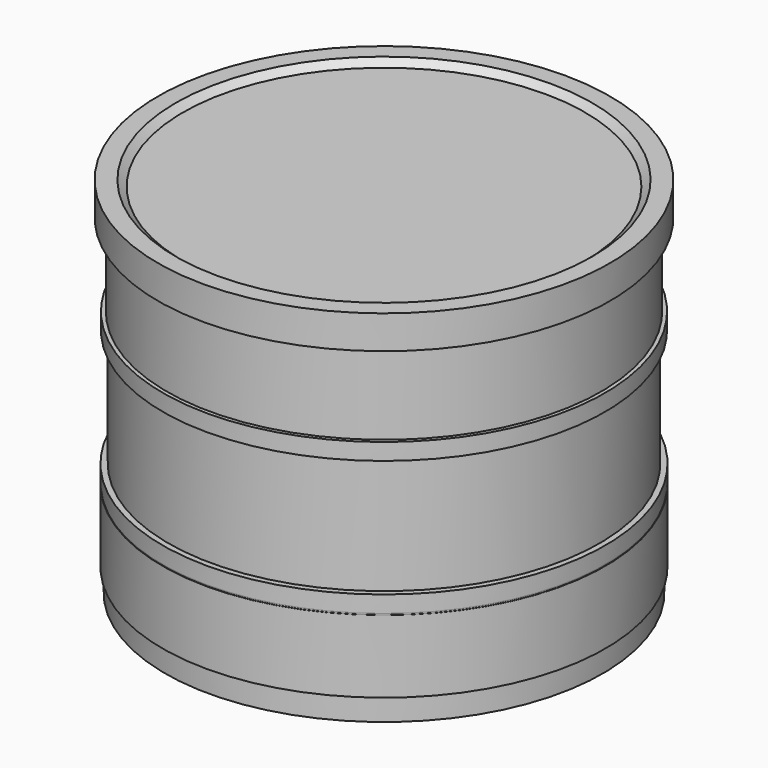
from build123d import *


with BuildPart() as f1:
    # F0 (on Right) → F1 (revolve)
    with BuildSketch(Plane.YZ):
        Polygon((0, 0), (28.925, 0), (28.925, 3), (29.25, 3), (29.25, 12.6), (29.2, 12.6), (29.2, 12.8), (29.25, 12.8), (29.25, 15), (28.5, 15), (28.5, 30.5), (29.2, 30.5), (29.2, 32.7), (28.7, 32.7), (28.7, 43.6), (29.85, 43.6), (29.85, 48), (27.5, 48), (26.55, 47.2), (0, 47.2), align=None)
    revolve(axis=Axis((0, 0, 53.454532), (0, 0, 1)))


solid = f1.part
